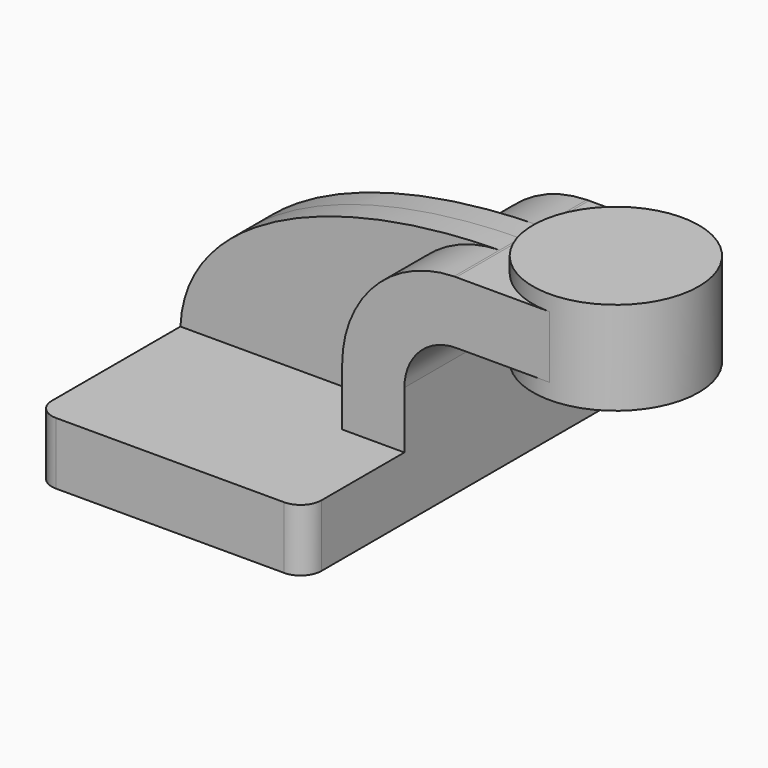
from build123d import *

# Parameters (mm, degrees)
F1_DEPTH = 63.5
F0_W     = 25.4
F0_H     = 19.05
F2_DEPTH = 25.4
F3_DEPTH = 7.9375
F5_R     = 6.35


with BuildPart() as f1:
    # F0 (on Front) → F1 (new body, symmetric)
    with BuildSketch(Plane.XZ):
        Polygon((41.275, -9.525), (41.275, 9.525), (22.225, 9.525), (-41.275, 9.525), (-41.275, -9.525), align=None)
    extrude(amount=F1_DEPTH, both=True)

    # F0 (on Front) → F2 (join, symmetric)
    with BuildSketch(Plane.XZ):
        with BuildLine():
            Line((22.225, 9.525), (41.275, 9.525))
            Line((41.275, 9.525), (41.275, 27.0002))
            ThreePointArc((41.275, 27.0002), (45.9246798487, 38.2255201513), (57.15, 42.8752))
            Line((57.15, 42.8752), (60.325, 42.8752))
            Line((60.325, 42.8752), (60.325, 61.9252))
            Line((60.325, 61.9252), (57.15, 61.9252))
            add(Edge.make_bspline(
                [(56.4818079964, 61.9188074242), (56.7043435954, 61.9212750257), (56.9270749553, 61.9234060904), (57.15, 61.9252)],
                knots=[111.0468319803, 111.0468319803, 111.0468319803, 111.0468319803, 111.5045361635, 111.5045361635, 111.5045361635, 111.5045361635], degree=3))
            ThreePointArc((56.4818079964, 61.9188074242), (32.2191733919, 51.4585218892), (22.225, 27.0002))
            Line((22.225, 27.0002), (22.225, 9.525))
        make_face()
        with Locations((73.025, 52.4002)):
            Rectangle(F0_W, F0_H)
    extrude(amount=F2_DEPTH, both=True)

    # F0 (on Front) → F3 (join, symmetric)
    with BuildSketch(Plane.XZ):
        with BuildLine():
            Line((-41.275, 9.525), (22.225, 9.525))
            Line((22.225, 9.525), (22.225, 27.0002))
            ThreePointArc((22.225, 27.0002), (32.2191733919, 51.4585218892), (56.4818079964, 61.9188074242))
            add(Edge.make_bspline(
                [(-41.275, 9.525), (-39.9769728479, 40.9118730421), (2.4908807128, 61.3201252775), (56.4818079964, 61.9188074242)],
                knots=[0, 0, 0, 0, 111.0468319803, 111.0468319803, 111.0468319803, 111.0468319803], degree=3))
        make_face()
    extrude(amount=F3_DEPTH, both=True)

    # F5
    f5_edges = [f1.edges().sort_by_distance(p)[0] for p in [
        (-41.275, -63.5, 0),
        (41.275, -63.5, 0),
        (41.275, 63.5, 0),
        (-41.275, 63.5, 0),
    ]]
    fillet(f5_edges, radius=F5_R)


with BuildPart() as f4:
    # F0 (on Front) → F4 (revolve)
    with BuildSketch(Plane.XZ):
        Polygon((85.725, 61.9252), (85.725, 42.8752), (85.725, 38.1), (111.125, 38.1), (111.125, 66.675), (85.725, 66.675), align=None)
    revolve(axis=Axis((85.725, 0, 52.3875), (0, 0, 1)))


solid = Compound([f1.part, f4.part])
